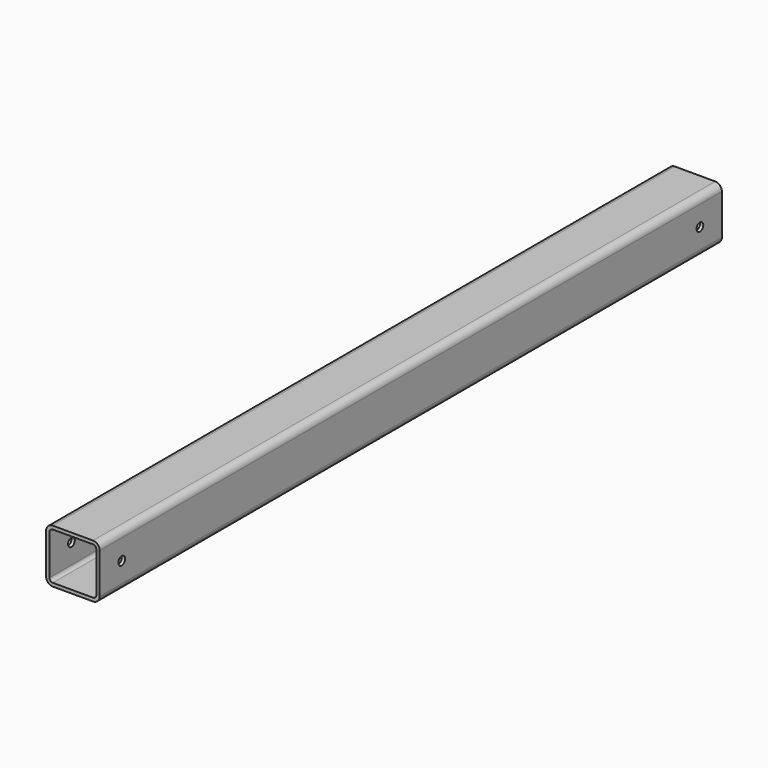
from build123d import *

# Parameters (mm, degrees)
F1_DEPTH = 580
F2_R     = 6.25
F3_DEPTH = 80.001


with BuildPart() as f1:
    # F0 (on Front) → F1 (new body, symmetric)
    with BuildSketch(Plane.XZ):
        with BuildLine():
            ThreePointArc((40, 30), (37.071068, 37.071068), (30, 40))
            Line((30, 40), (-30, 40))
            ThreePointArc((-30, 40), (-37.071068, 37.071068), (-40, 30))
            Line((-40, 30), (-40, -30))
            ThreePointArc((-40, -30), (-37.071068, -37.071068), (-30, -40))
            Line((-30, -40), (30, -40))
            ThreePointArc((30, -40), (37.071068, -37.071068), (40, -30))
            Line((40, -30), (40, 30))
        make_face()
        with BuildLine():
            ThreePointArc((30, 35), (33.535534, 33.535534), (35, 30))
            Line((35, 30), (35, -30))
            ThreePointArc((35, -30), (33.535534, -33.535534), (30, -35))
            Line((30, -35), (-30, -35))
            ThreePointArc((-30, -35), (-33.535534, -33.535534), (-35, -30))
            Line((-35, -30), (-35, 30))
            ThreePointArc((-35, 30), (-33.535534, 33.535534), (-30, 35))
            Line((-30, 35), (30, 35))
        make_face(mode=Mode.SUBTRACT)
    extrude(amount=F1_DEPTH, both=True)

    # F2 (on face) → F3 (cut, through all)
    with BuildSketch(Plane.YZ.offset(40)):
        with Locations((-539, 0)):
            Circle(F2_R)
        with Locations((539, 0)):
            Circle(F2_R)
    extrude(amount=-F3_DEPTH, mode=Mode.SUBTRACT)


solid = f1.part
